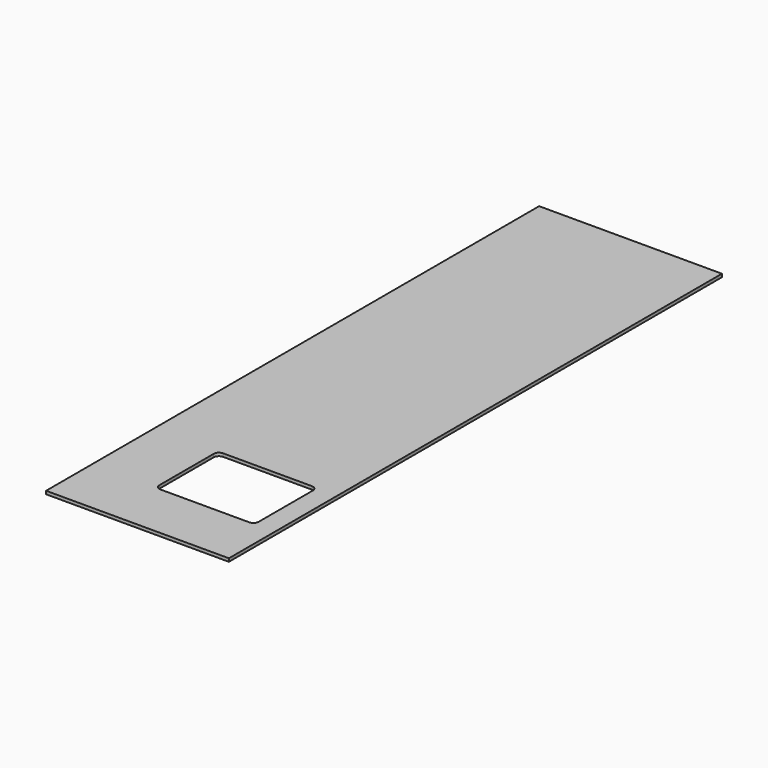
from build123d import *

# Parameters (mm, degrees)
F0_W     = 350
F0_H     = 6
F1_DEPTH = 1180
F3_DEPTH = 6


with BuildPart() as f1:
    # F0 (on Front) → F1 (new body)
    with BuildSketch(Plane.XZ):
        with Locations((175, 3)):
            Rectangle(F0_W, F0_H)
    extrude(amount=F1_DEPTH)

    # F2 (on face) → F3 (cut)
    with BuildSketch(Plane.XY.offset(6)):
        with BuildLine():
            Line((311.001629, -1060), (311.001629, -995))
            Line((311.001629, -995), (311.001629, -930))
            ThreePointArc((311.001629, -930), (308.072696, -922.928932), (301.001629, -920))
            Line((301.001629, -920), (131, -920))
            ThreePointArc((131, -920), (123.928932, -922.928932), (121, -930))
            Line((121, -930), (121, -1060))
            ThreePointArc((121, -1060), (123.928932, -1067.071068), (131, -1070))
            Line((131, -1070), (301.001629, -1070))
            ThreePointArc((301.001629, -1070), (308.072696, -1067.071068), (311.001629, -1060))
        make_face()
    extrude(amount=-F3_DEPTH, mode=Mode.SUBTRACT)


solid = f1.part
